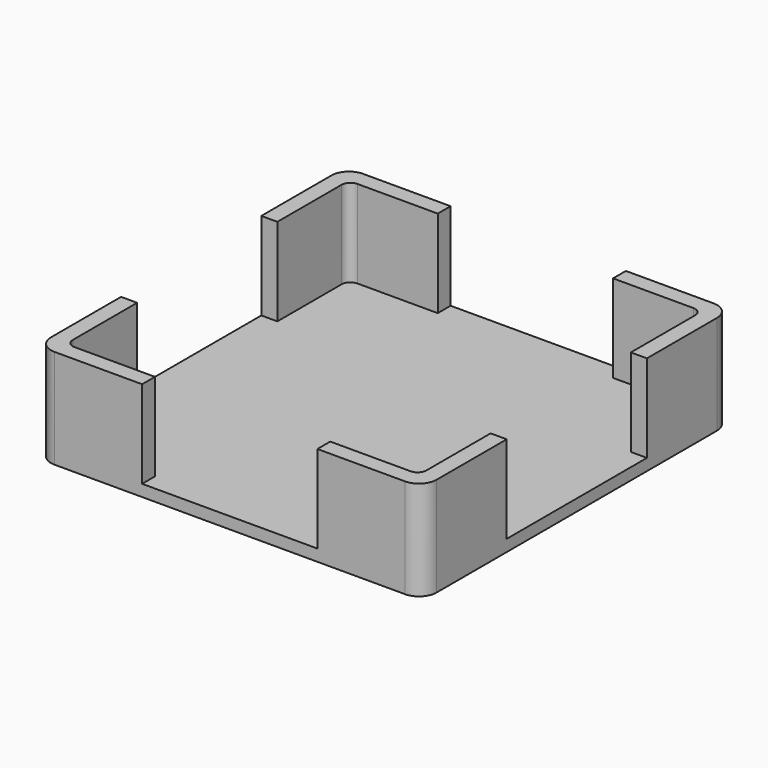
from build123d import *

# Parameters (mm, degrees)
PAD001_DEPTH = 2
PAD002_DEPTH = 15
SKETCH003_W  = 2.25
SKETCH003_H  = 8.5
POCKET_DEPTH = 2


with BuildPart() as part:
    # Sketch001 → Pad001 (new body)
    with BuildSketch(Plane.XY):
        with BuildLine():
            Line((-30, 33), (30, 33))
            ThreePointArc((33, 30), (32.12132, 32.12132), (30, 33))
            Line((33, 30), (33, -30))
            ThreePointArc((30, -33), (32.12132, -32.12132), (33, -30))
            Line((30, -33), (-30, -33))
            ThreePointArc((-33, -30), (-32.12132, -32.12132), (-30, -33))
            Line((-33, -30), (-33, 30))
            ThreePointArc((-30, 33), (-32.12132, 32.12132), (-33, 30))
        make_face()
    extrude(amount=PAD001_DEPTH)

    # Sketch002 (on Face10 of Pad001) → Pad002 (join)
    with BuildSketch(Plane.XY.offset(2)):
        with BuildLine():
            ThreePointArc((-30, 33), (-32.12132, 32.12132), (-33, 30))
            Line((-33, 30), (-33, 15))
            Line((-33, 15), (-30.25, 15))
            Line((-30.25, 15), (-30.25, 28.75))
            ThreePointArc((-28.75, 30.25), (-29.81066, 29.81066), (-30.25, 28.75))
            Line((-15, 30.25), (-28.75, 30.25))
            Line((-15, 33), (-15, 30.25))
            Line((-30, 33), (-15, 33))
        make_face()
        with BuildLine():
            ThreePointArc((33, 30), (32.12132, 32.12132), (30, 33))
            Line((30, 33), (15, 33))
            Line((15, 33), (15, 30.25))
            Line((15, 30.25), (28.75, 30.25))
            ThreePointArc((30.25, 28.75), (29.81066, 29.81066), (28.75, 30.25))
            Line((30.25, 15), (30.25, 28.75))
            Line((33, 15), (30.25, 15))
            Line((33, 30), (33, 15))
        make_face()
        with BuildLine():
            ThreePointArc((-33, -30), (-32.12132, -32.12132), (-30, -33))
            Line((-30, -33), (-15, -33))
            Line((-15, -33), (-15, -30.25))
            Line((-15, -30.25), (-28.75, -30.25))
            ThreePointArc((-30.25, -28.75), (-29.81066, -29.81066), (-28.75, -30.25))
            Line((-30.25, -15), (-30.25, -28.75))
            Line((-33, -15), (-30.25, -15))
            Line((-33, -30), (-33, -15))
        make_face()
        with BuildLine():
            ThreePointArc((30, -33), (32.12132, -32.12132), (33, -30))
            Line((33, -30), (33, -15))
            Line((33, -15), (30.25, -15))
            Line((30.25, -15), (30.25, -28.75))
            ThreePointArc((28.75, -30.25), (29.81066, -29.81066), (30.25, -28.75))
            Line((15, -30.25), (28.75, -30.25))
            Line((15, -33), (15, -30.25))
            Line((30, -33), (15, -33))
        make_face()
    extrude(amount=PAD002_DEPTH)

    # Sketch003 (on DatumPlane) → Pocket (cut)
    with BuildSketch(Plane(origin=(0, -30.25, 9.5), x_dir=(0, 0, 1), z_dir=(0, 1, 0))):
        with Locations((4.975, -21.5)):
            Rectangle(SKETCH003_W, SKETCH003_H)
        with Locations((4.975, 21.5)):
            Rectangle(SKETCH003_W, SKETCH003_H)
    extrude(amount=-POCKET_DEPTH, mode=Mode.SUBTRACT)


with BuildPart() as part_1:
    # Body001 placement: moved
    add(part.part.moved(Location((0, 0, -17))))


solid = part_1.part
